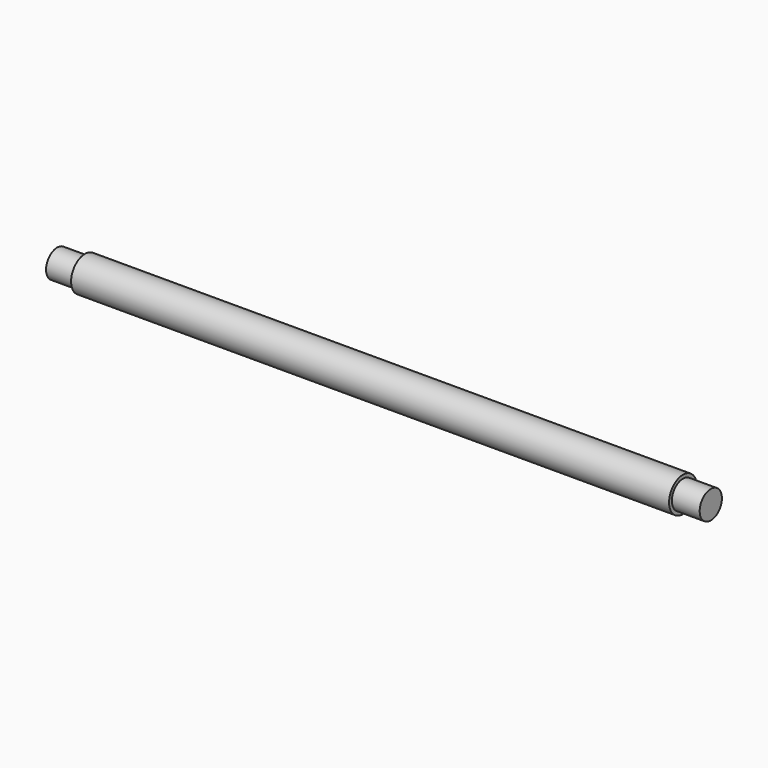
from build123d import *

# Parameters (mm, degrees)
F0_R     = 4
F1_DEPTH = 94
F0_R_2   = 5
F2_DEPTH = 86


with BuildPart() as f1:
    # F0 (on Right) → F1 (new body, symmetric)
    with BuildSketch(Plane.YZ):
        Circle(F0_R)
    extrude(amount=F1_DEPTH, both=True)

    # F0 (on Right) → F2 (join, symmetric)
    with BuildSketch(Plane.YZ):
        Circle(F0_R_2)
        Circle(F0_R, mode=Mode.SUBTRACT)
    extrude(amount=F2_DEPTH, both=True)


solid = f1.part
